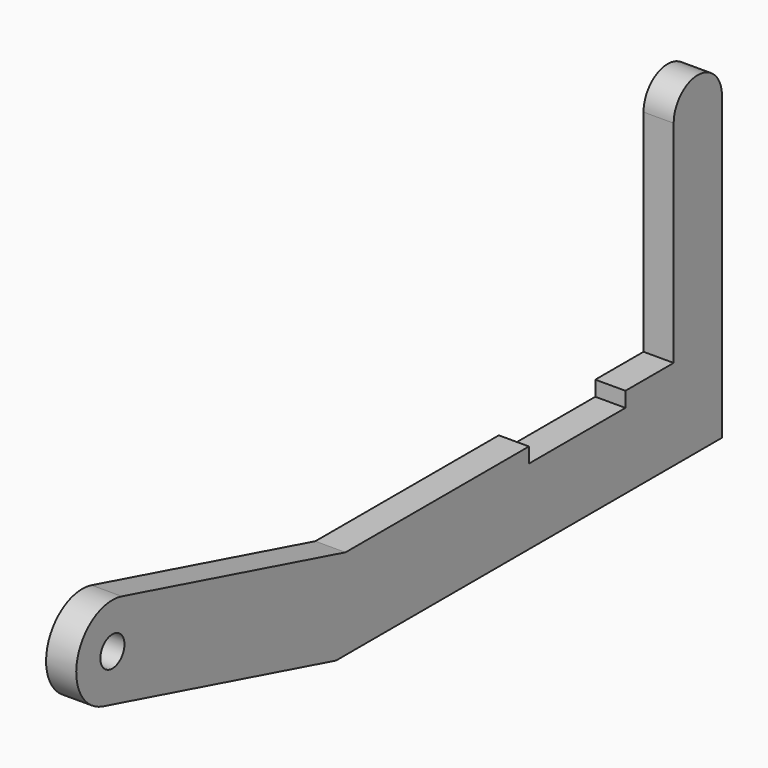
from build123d import *

# Parameters (mm, degrees)
F3_DEPTH = 1.5875
F2_W     = 12.7
F2_H     = 3.175
F4_DEPTH = 12.7
F1_R     = 1.5875
F5_DEPTH = 12.7


with BuildPart() as f3:
    # F0 (on Right) → F3 (new body, symmetric)
    with BuildSketch(Plane.YZ):
        with BuildLine():
            Line((-56.068145, 20.917505), (-25.4, 12.7))
            Line((-25.4, 12.7), (25.4, 12.7))
            Line((25.4, 12.7), (25.4, 44.45))
            ThreePointArc((25.4, 44.45), (22.225, 47.625), (19.05, 44.45))
            Line((19.05, 44.45), (19.05, 22.225))
            Line((19.05, 22.225), (-24.14601, 22.225))
            Line((-24.14601, 22.225), (-53.602894, 30.117948))
            ThreePointArc((-53.602894, 30.117948), (-59.435741, 26.750352), (-56.068145, 20.917505))
        make_face()
    extrude(amount=F3_DEPTH, both=True)

    # F2 (on Right) → F4 (cut, symmetric)
    with BuildSketch(Plane.YZ):
        with Locations((6.35, 22.225)):
            Rectangle(F2_W, F2_H)
    extrude(amount=F4_DEPTH, both=True, mode=Mode.SUBTRACT)

    # F1 (on Right) → F5 (cut, symmetric)
    with BuildSketch(Plane.YZ):
        with Locations((-54.835519, 25.517726)):
            Circle(F1_R)
    extrude(amount=F5_DEPTH, both=True, mode=Mode.SUBTRACT)


solid = f3.part
